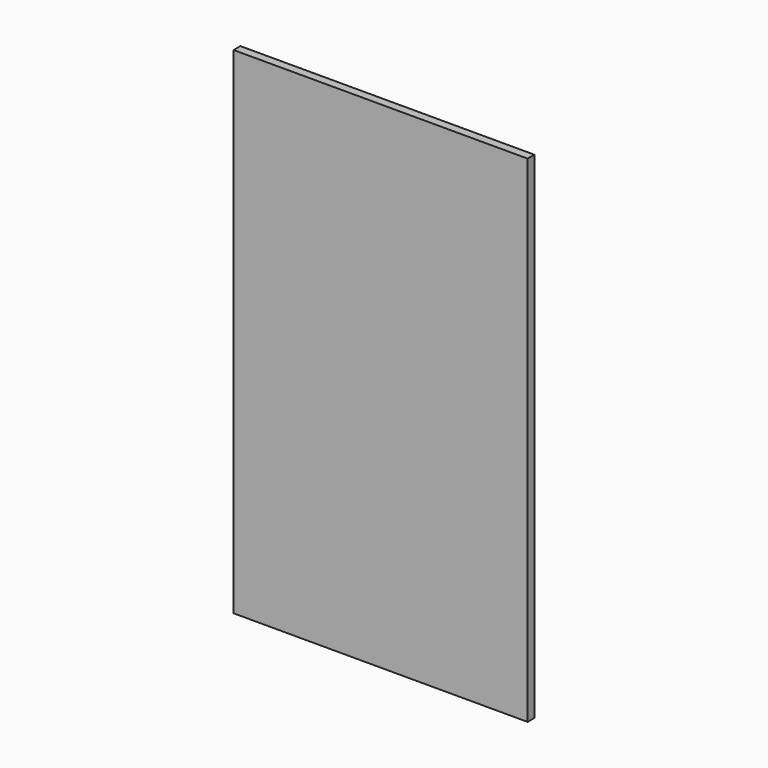
from build123d import *

# Parameters (mm, degrees)
SKETCH_W  = 415
SKETCH_H  = 700
PAD_DEPTH = 12


with BuildPart() as part:
    # Sketch → Pad (new body)
    with BuildSketch(Plane.XZ):
        with Locations((207.5, 350)):
            Rectangle(SKETCH_W, SKETCH_H)
    extrude(amount=-PAD_DEPTH)


solid = part.part
